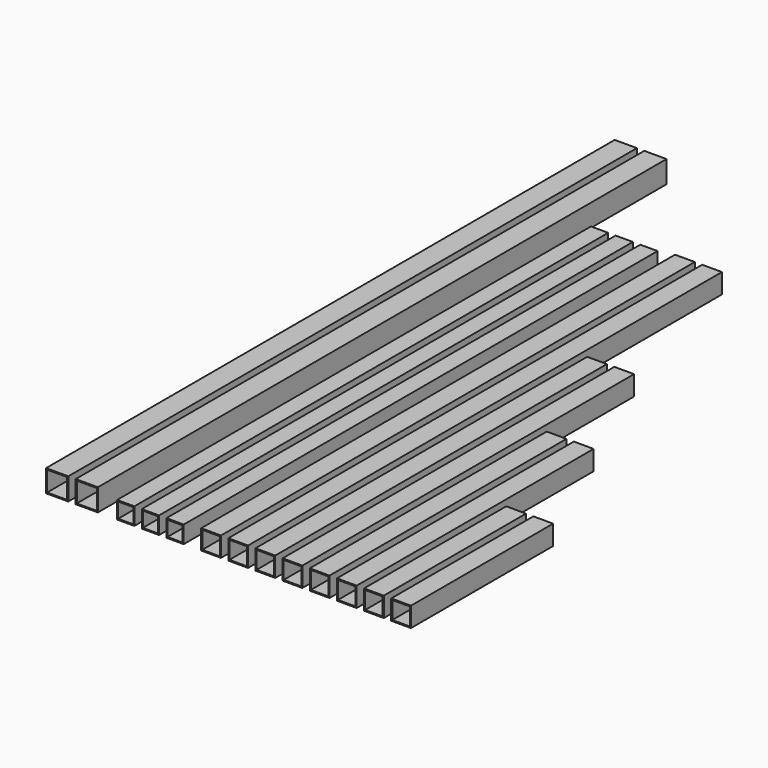
from build123d import *

# Parameters (mm, degrees)
F0_W     = 44.45
F0_H     = 44.45
F0_W_2   = 38.862
F0_H_2   = 38.862
F1_DEPTH = 1524
F0_W_3   = 50.8
F0_H_3   = 50.8
F0_W_4   = 45.212
F0_H_4   = 45.212
F2_DEPTH = 1524
F3_DEPTH = 1066.8
F4_DEPTH = 762
F5_DEPTH = 457.2
F0_W_5   = 57.15
F0_H_5   = 57.15
F0_W_6   = 51.562
F0_H_6   = 51.562
F6_DEPTH = 1828.8


with BuildPart() as f1:
    # F0 (on Front) → F1 (new body)
    with BuildSketch(Plane.XZ):
        with Locations((-247.45845, 22.225)):
            Rectangle(F0_W, F0_H)
        with Locations((-247.45845, 22.225)):
            Rectangle(F0_W_2, F0_H_2, mode=Mode.SUBTRACT)
        with Locations((-183.95845, 22.225)):
            Rectangle(F0_W, F0_H)
        with Locations((-183.95845, 22.225)):
            Rectangle(F0_W_2, F0_H_2, mode=Mode.SUBTRACT)
        with Locations((-120.45845, 22.225)):
            Rectangle(F0_W, F0_H)
        with Locations((-120.45845, 22.225)):
            Rectangle(F0_W_2, F0_H_2, mode=Mode.SUBTRACT)
    extrude(amount=-F1_DEPTH)


with BuildPart() as f2:
    # F0 (on Front) → F2 (new body)
    with BuildSketch(Plane.XZ):
        with Locations((-27.873619, 25.4)):
            Rectangle(F0_W_3, F0_H_3)
        with Locations((-27.873619, 25.4)):
            Rectangle(F0_W_4, F0_H_4, mode=Mode.SUBTRACT)
        with Locations((41.976381, 25.4)):
            Rectangle(F0_W_3, F0_H_3)
        with Locations((41.976381, 25.4)):
            Rectangle(F0_W_4, F0_H_4, mode=Mode.SUBTRACT)
    extrude(amount=-F2_DEPTH)


with BuildPart() as f3:
    # F0 (on Front) → F3 (new body)
    with BuildSketch(Plane.XZ):
        with Locations((111.826381, 25.4)):
            Rectangle(F0_W_3, F0_H_3)
        with Locations((111.826381, 25.4)):
            Rectangle(F0_W_4, F0_H_4, mode=Mode.SUBTRACT)
        with Locations((181.676381, 25.4)):
            Rectangle(F0_W_3, F0_H_3)
        with Locations((181.676381, 25.4)):
            Rectangle(F0_W_4, F0_H_4, mode=Mode.SUBTRACT)
    extrude(amount=-F3_DEPTH)


with BuildPart() as f4:
    # F0 (on Front) → F4 (new body)
    with BuildSketch(Plane.XZ):
        with Locations((251.526381, 25.4)):
            Rectangle(F0_W_3, F0_H_3)
        with Locations((251.526381, 25.4)):
            Rectangle(F0_W_4, F0_H_4, mode=Mode.SUBTRACT)
        with Locations((321.376381, 25.4)):
            Rectangle(F0_W_3, F0_H_3)
        with Locations((321.376381, 25.4)):
            Rectangle(F0_W_4, F0_H_4, mode=Mode.SUBTRACT)
    extrude(amount=-F4_DEPTH)


with BuildPart() as f5:
    # F0 (on Front) → F5 (new body)
    with BuildSketch(Plane.XZ):
        with Locations((391.226381, 25.4)):
            Rectangle(F0_W_3, F0_H_3)
        with Locations((391.226381, 25.4)):
            Rectangle(F0_W_4, F0_H_4, mode=Mode.SUBTRACT)
        with Locations((461.076381, 25.4)):
            Rectangle(F0_W_3, F0_H_3)
        with Locations((461.076381, 25.4)):
            Rectangle(F0_W_4, F0_H_4, mode=Mode.SUBTRACT)
    extrude(amount=-F5_DEPTH)


with BuildPart() as f6:
    # F0 (on Front) → F6 (new body)
    with BuildSketch(Plane.XZ):
        with Locations((-423.807714, 28.575)):
            Rectangle(F0_W_5, F0_H_5)
        with Locations((-423.807714, 28.575)):
            Rectangle(F0_W_6, F0_H_6, mode=Mode.SUBTRACT)
        with Locations((-347.607714, 28.575)):
            Rectangle(F0_W_5, F0_H_5)
        with Locations((-347.607714, 28.575)):
            Rectangle(F0_W_6, F0_H_6, mode=Mode.SUBTRACT)
    extrude(amount=-F6_DEPTH)


solid = Compound([f1.part, f2.part, f3.part, f4.part, f5.part, f6.part])
